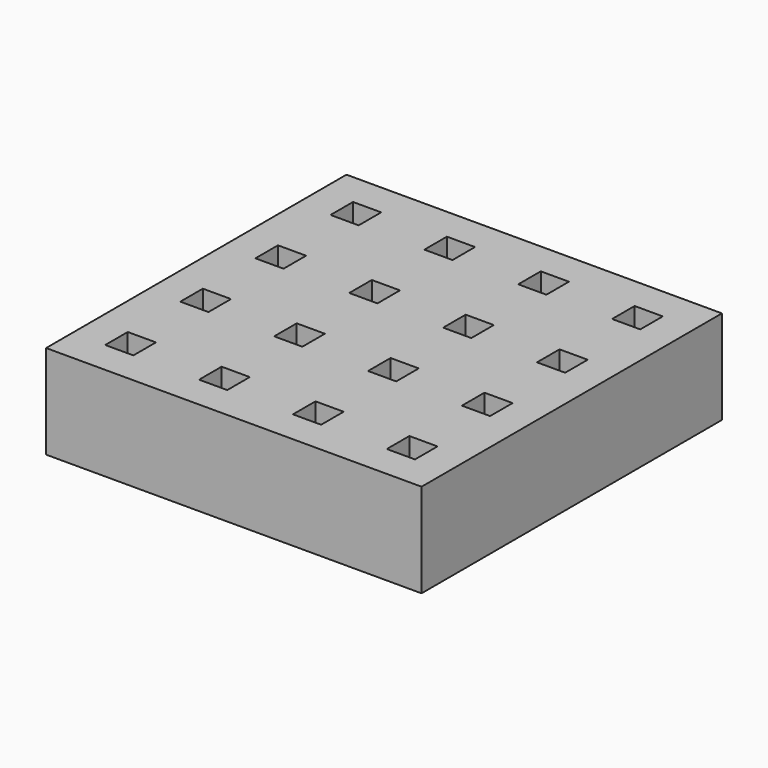
from build123d import *

# Parameters (mm, degrees)
F1_DEPTH = 101.6
F2_W     = 7.62
F2_H     = 7.62
F3_DEPTH = 22.86


with BuildPart() as f1:
    # F0 (on Front) → F1 (new body)
    with BuildSketch(Plane.XZ):
        Polygon((50.8, 0), (0, 0), (-50.8, 0), (-50.8, -25.4), (50.8, -25.4), align=None)
    extrude(amount=F1_DEPTH)

    # F2 (on face) → F3 (cut)
    with BuildSketch(Plane.XY):
        with Locations((-38.1, -12.7)):
            Rectangle(F2_W, F2_H)
        with Locations((-12.7, -12.7)):
            Rectangle(F2_W, F2_H)
        with Locations((12.7, -12.7)):
            Rectangle(F2_W, F2_H)
        with Locations((38.1, -12.7)):
            Rectangle(F2_W, F2_H)
        with Locations((-38.1, -38.1)):
            Rectangle(F2_W, F2_H)
        with Locations((-12.7, -38.1)):
            Rectangle(F2_W, F2_H)
        with Locations((-38.1, -63.5)):
            Rectangle(F2_W, F2_H)
        with Locations((-38.1, -88.9)):
            Rectangle(F2_W, F2_H)
        with Locations((-12.7, -88.9)):
            Rectangle(F2_W, F2_H)
        with Locations((12.7, -88.9)):
            Rectangle(F2_W, F2_H)
        with Locations((38.1, -88.9)):
            Rectangle(F2_W, F2_H)
        with Locations((38.1, -63.5)):
            Rectangle(F2_W, F2_H)
        with Locations((12.7, -63.5)):
            Rectangle(F2_W, F2_H)
        with Locations((-12.7, -63.5)):
            Rectangle(F2_W, F2_H)
        with Locations((12.7, -38.1)):
            Rectangle(F2_W, F2_H)
        with Locations((38.1, -38.1)):
            Rectangle(F2_W, F2_H)
    extrude(amount=-F3_DEPTH, mode=Mode.SUBTRACT)


solid = f1.part
